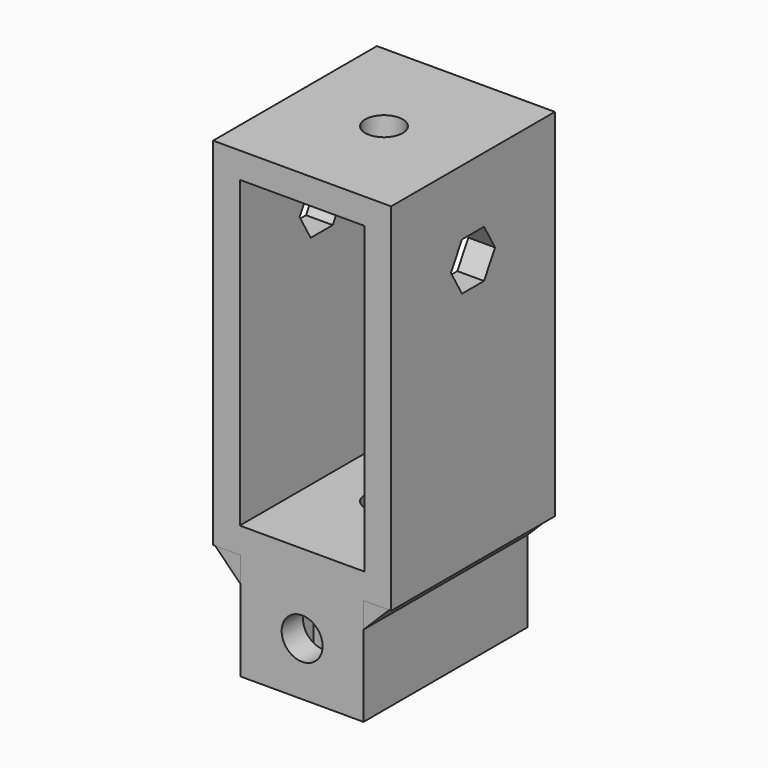
from build123d import *

# Parameters (mm, degrees)
CYLINDER010_R            = 2.1
CYLINDER010_DEPTH        = 43
CYLINDER011_R            = 4
CYLINDER011_DEPTH        = 12
CYLINDER012_R            = 2.3
CYLINDER012_DEPTH        = 71
CUBE018_W                = 7.4
CUBE018_H                = 3.2
CUBE018_DEPTH            = 12
CUBE019_W                = 7.4
CUBE019_H                = 3.52
CUBE019_DEPTH            = 12
PRISM011_DEPTH           = 34
PRISM011_PLACEMENT_ANGLE = 15
PRISM012_DEPTH           = 34
PRISM012_PLACEMENT_ANGLE = 75
PRISM013_DEPTH           = 21
CUBE017_W                = 14
CUBE017_H                = 23
CUBE017_DEPTH            = 34.2
CUBE016_W                = 13.8
CUBE016_H                = 23
CUBE016_DEPTH            = 12
PRISM009_DEPTH           = 23
PRISM009_ROLL_ANGLE      = 90
PRISM009_PITCH_ANGLE     = -14.999996
PRISM010_DEPTH           = 23
PRISM010_ROLL_ANGLE      = -90
PRISM010_PITCH_ANGLE     = -14.999996
PRISM010_PLACEMENT_ANGLE = -180
CUBE015_W                = 20
CUBE015_H                = 23
CUBE015_DEPTH            = 40


with BuildPart() as cylinder010:
    # cylinder010 → cylinder010 (new body)
    with BuildSketch(Plane.XY.offset(44.5)):
        Circle(CYLINDER010_R)
    extrude(amount=CYLINDER010_DEPTH)


with BuildPart() as cylinder011:
    # cylinder011 → cylinder011 (new body)
    with BuildSketch(Plane.XY.offset(34)):
        Circle(CYLINDER011_R)
    extrude(amount=CYLINDER011_DEPTH)


with BuildPart() as cylinder012:
    # cylinder012 → cylinder012 (new body)
    with BuildSketch(Plane(origin=(0, 35.5, 40), x_dir=(1, 0, 0), z_dir=(0, -1, 0))):
        Circle(CYLINDER012_R)
    extrude(amount=CYLINDER012_DEPTH)


with BuildPart() as cube018:
    # cube018 → cube018 (new body)
    with BuildSketch(Plane(origin=(-3.7, -8.5, 34), x_dir=(1, 0, 0), z_dir=(0, 0, 1))):
        with Locations((3.7, 1.6)):
            Rectangle(CUBE018_W, CUBE018_H)
    extrude(amount=CUBE018_DEPTH)


with BuildPart() as cube019:
    # cube019 → cube019 (new body)
    with BuildSketch(Plane(origin=(-3.7, 5.14, 34), x_dir=(1, 0, 0), z_dir=(0, 0, 1))):
        with Locations((3.7, 1.76)):
            Rectangle(CUBE019_W, CUBE019_H)
    extrude(amount=CUBE019_DEPTH)


with BuildPart() as prism011:
    # prism011 → prism011 (new body)
    with BuildSketch(Plane.XY):
        Polygon((3, 0), (-1.5, 2.598076), (-1.5, -2.598076), align=None)
    extrude(amount=PRISM011_DEPTH)


with BuildPart() as prism011_1:
    # prism011 placement: moved
    add(prism011.part.moved(Location((7, 11.5, 49))).rotate(Axis((7, 11.5, 49), (0, 0, 1)), PRISM011_PLACEMENT_ANGLE))


with BuildPart() as prism012:
    # prism012 → prism012 (new body)
    with BuildSketch(Plane.XY):
        Polygon((3, 0), (-1.5, 2.598076), (-1.5, -2.598076), align=None)
    extrude(amount=PRISM012_DEPTH)


with BuildPart() as prism012_1:
    # prism012 placement: moved
    add(prism012.part.moved(Location((-7, 11.5, 49))).rotate(Axis((-7, 11.5, 49), (0, 0, -1)), PRISM012_PLACEMENT_ANGLE))


with BuildPart() as prism013:
    # prism013 → prism013 (new body)
    with BuildSketch(Plane(origin=(-10.5, 0, 76), x_dir=(0, 1, 0), z_dir=(1, 0, 0))):
        Polygon((3.1, 0), (1.55, 2.684679), (-1.55, 2.684679), (-3.1, 0), (-1.55, -2.684679), (1.55, -2.684679), align=None)
    extrude(amount=PRISM013_DEPTH)


with BuildPart() as group007:
    # cube017 → cube017 (new body)
    with BuildSketch(Plane(origin=(-7, -11.5, 48.9), x_dir=(1, 0, 0), z_dir=(0, 0, 1))):
        with Locations((7, 11.5)):
            Rectangle(CUBE017_W, CUBE017_H)
    extrude(amount=CUBE017_DEPTH)

    # Group007: union cylinder010, cylinder011, cylinder012, cube018, cube019, prism011, prism012, prism013
    add(cylinder010.part)
    add(cylinder011.part)
    add(cylinder012.part)
    add(cube018.part)
    add(cube019.part)
    add(prism011_1.part)
    add(prism012_1.part)
    add(prism013.part)


with BuildPart() as cube016:
    # cube016 → cube016 (new body)
    with BuildSketch(Plane(origin=(-6.9, -11.5, 34), x_dir=(1, 0, 0), z_dir=(0, 0, 1))):
        with Locations((6.9, 11.5)):
            Rectangle(CUBE016_W, CUBE016_H)
    extrude(amount=CUBE016_DEPTH)


with BuildPart() as prism009:
    # prism009 → prism009 (new body)
    with BuildSketch(Plane.XY):
        Polygon((3, 0), (-1.5, 2.598076), (-1.5, -2.598076), align=None)
    extrude(amount=PRISM009_DEPTH)


with BuildPart() as prism009_1:
    # prism009 roll: moved
    add(prism009.part.rotate(Axis((0, 0, 0), (1, 0, 0)), PRISM009_ROLL_ANGLE))


with BuildPart() as prism009_2:
    # prism009 pitch: moved
    add(prism009_1.part.rotate(Axis((0, 0, 0), (0, 1, 0)), PRISM009_PITCH_ANGLE))


with BuildPart() as prism009_3:
    # prism009 placement: moved
    add(prism009_2.part.moved(Location((7, 11.500001, 45.35))))


with BuildPart() as prism010:
    # prism010 → prism010 (new body)
    with BuildSketch(Plane.XY):
        Polygon((3, 0), (-1.5, 2.598076), (-1.5, -2.598076), align=None)
    extrude(amount=PRISM010_DEPTH)


with BuildPart() as prism010_1:
    # prism010 roll: moved
    add(prism010.part.rotate(Axis((0, 0, 0), (1, 0, 0)), PRISM010_ROLL_ANGLE))


with BuildPart() as prism010_2:
    # prism010 pitch: moved
    add(prism010_1.part.rotate(Axis((0, 0, 0), (0, 1, 0)), PRISM010_PITCH_ANGLE))


with BuildPart() as prism010_3:
    # prism010 placement: moved
    add(prism010_2.part.moved(Location((-7, 11.500001, 45.35))).rotate(Axis((-7, 11.500001, 45.35), (0, 0, 1)), PRISM010_PLACEMENT_ANGLE))


with BuildPart() as side_slider:
    # cube015 → cube015 (new body)
    with BuildSketch(Plane(origin=(-10, -11.5, 46), x_dir=(1, 0, 0), z_dir=(0, 0, 1))):
        with Locations((10, 11.5)):
            Rectangle(CUBE015_W, CUBE015_H)
    extrude(amount=CUBE015_DEPTH)

    # Group006: union cube016, prism009, prism010
    add(cube016.part)
    add(prism009_3.part)
    add(prism010_3.part)

    # difference004: cut Group007
    add(group007.part, mode=Mode.SUBTRACT)


solid = side_slider.part
